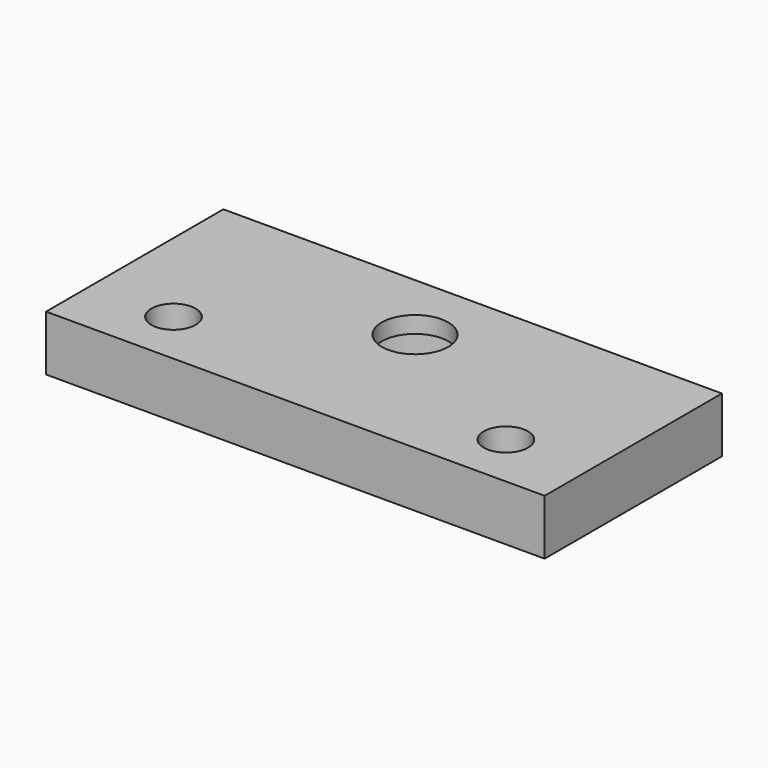
from build123d import *

# Parameters (mm, degrees)
SKETCH_W        = 90
SKETCH_H        = 40
PAD_DEPTH       = 10
SKETCH001_R     = 6
SKETCH001_R_2   = 2.5
POCKET_DEPTH    = 10.001
SKETCH002_R     = 4
POCKET001_DEPTH = 5
SKETCH004_R     = 11
POCKET003_DEPTH = 7


with BuildPart() as part:
    # Sketch → Pad (new body)
    with BuildSketch(Plane.XY):
        Rectangle(SKETCH_W, SKETCH_H)
    extrude(amount=PAD_DEPTH)

    # Sketch001 (on Face6 of Pad) → Pocket (cut, through all)
    with BuildSketch(Plane.XY.offset(10)):
        with Locations((0, 7)):
            Circle(SKETCH001_R)
        with Locations((-30, -10)):
            Circle(SKETCH001_R_2)
        with Locations((30, -10)):
            Circle(SKETCH001_R_2)
    extrude(amount=-POCKET_DEPTH, mode=Mode.SUBTRACT)

    # Sketch002 (on Face5 of Pocket) → Pocket001 (cut)
    with BuildSketch(Plane.XY.offset(10)):
        with Locations((30, -10)):
            Circle(SKETCH002_R)
        with Locations((0, 7)):
            Circle(SKETCH002_R)
        with Locations((-30, -10)):
            Circle(SKETCH002_R)
    extrude(amount=-POCKET001_DEPTH, mode=Mode.SUBTRACT)

    # Sketch004 (on Face4 of Pocket001) → Pocket003 (cut)
    with BuildSketch(Plane(origin=(0, 0, 0), x_dir=(1, 0, 0), z_dir=(0, 0, -1))):
        with Locations((0, -7)):
            Circle(SKETCH004_R)
    extrude(amount=-POCKET003_DEPTH, mode=Mode.SUBTRACT)


solid = part.part
